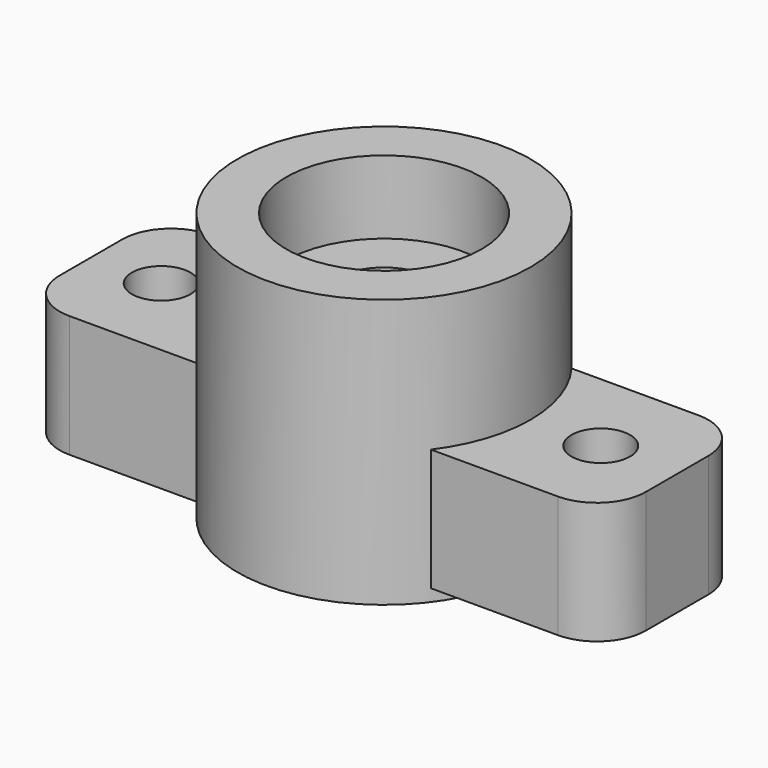
from build123d import *

# Parameters (mm, degrees)
F0_W     = 1200
F0_H     = 360
F1_DEPTH = 250
F2_R     = 60
F3_DEPTH = 250.001
F4_R     = 300
F5_DEPTH = 275
F6_R     = 200
F7_DEPTH = 150
F8_R     = 100
F9_DEPTH = 400.001
F10_R    = 100


with BuildPart() as f1:
    # F0 (on Top) → F1 (new body)
    with BuildSketch(Plane.XY):
        Rectangle(F0_W, F0_H)
    extrude(amount=F1_DEPTH)

    # F2 (on face) → F3 (cut, through all)
    with BuildSketch(Plane.XY.offset(250)):
        with Locations((-456.190459, 0)):
            Circle(F2_R)
        with Locations((443.809541, 0)):
            Circle(F2_R)
    extrude(amount=-F3_DEPTH, mode=Mode.SUBTRACT)

    # F4 (on face) → F5 (join, symmetric)
    with BuildSketch(Plane.XY.offset(250)):
        Circle(F4_R)
        with BuildLine():
            ThreePointArc((240, -180), (284.604989, -94.86833), (300, 0))
            ThreePointArc((300, 0), (284.604989, 94.86833), (240, 180))
            Line((240, 180), (-240, 180))
            ThreePointArc((-240, 180), (-300, 0), (-240, -180))
            Line((-240, -180), (240, -180))
        make_face()
    extrude(amount=F5_DEPTH, both=True)

    # F6 (on face) → F7 (cut)
    with BuildSketch(Plane.XY.offset(525)):
        Circle(F6_R)
    extrude(amount=-F7_DEPTH, mode=Mode.SUBTRACT)

    # F8 (on face) → F9 (cut, through all)
    with BuildSketch(Plane.XY.offset(375)):
        Circle(F8_R)
    extrude(amount=-F9_DEPTH, mode=Mode.SUBTRACT)

    # F10
    f10_edges = [f1.edges().sort_by_distance(p)[0] for p in [
        (600, -180, 125),
        (600, 180, 125),
        (-600, -180, 125),
        (-600, 180, 125),
    ]]
    fillet(f10_edges, radius=F10_R)


solid = f1.part
